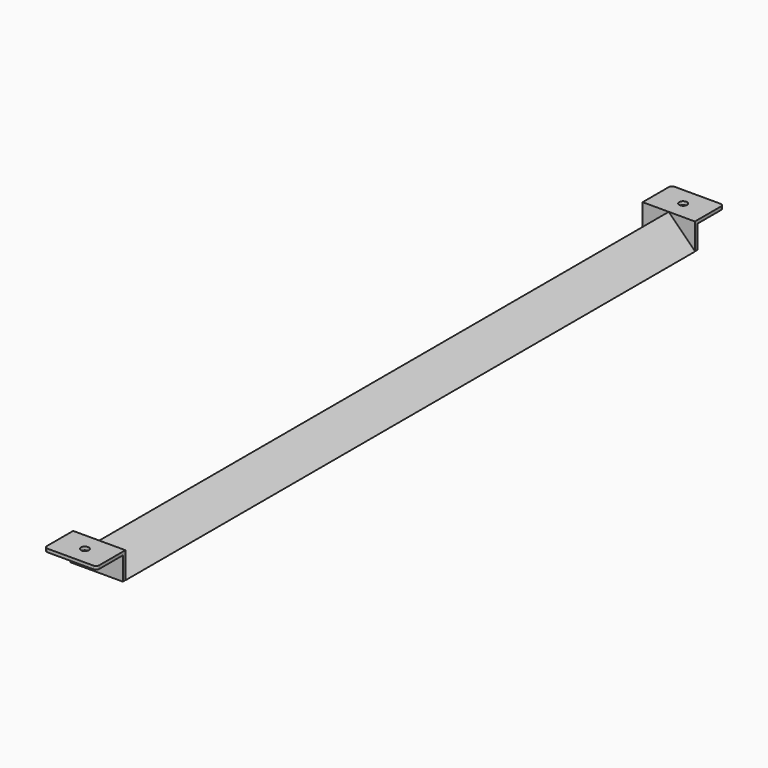
from build123d import *

# Parameters (mm, degrees)
F1_DEPTH = 1090
F3_DEPTH = 40
F4_R     = 6
F5_DEPTH = 25
F8_R     = 5


with BuildPart() as f1:
    # F0 (on Front) → F1 (new body)
    with BuildSketch(Plane.XZ):
        Polygon((-35.355339, -35.355339), (0, 0), (35.355339, -35.355339), (40.355339, -35.355339), (0, 5), (-40.355339, -35.355339), align=None)
    extrude(amount=F1_DEPTH)


with BuildPart() as f3:
    # F2 (on Right) → F3 (new body, symmetric)
    with BuildSketch(Plane.YZ):
        Polygon((55, 5), (0, 5), (0, -35.355339), (5, -35.355339), (5, 0), (55, 0), align=None)
    extrude(amount=F3_DEPTH, both=True)

    # F4 (on face) → F5 (cut)
    with BuildSketch(Plane.XY.offset(5)):
        with Locations((0, 27.5)):
            Circle(F4_R)
    extrude(amount=-F5_DEPTH, mode=Mode.SUBTRACT)

    # F8
    f8_edges = [f3.edges().sort_by_distance(p)[0] for p in [
        (-40, 55, 2.5),
        (40, 55, 2.5),
    ]]
    fillet(f8_edges, radius=F8_R)


with BuildPart() as f7_1:
    # F7: instance of F3
    add(f3.part.mirror(Plane.XZ.offset(545)))


solid = Compound([f1.part, f3.part, f7_1.part])
